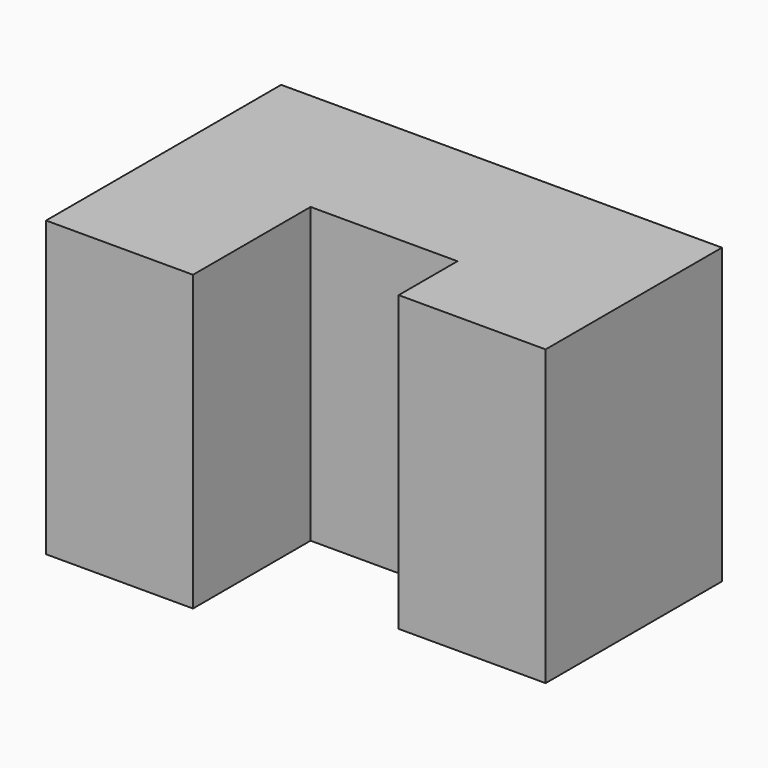
from build123d import *

# Parameters (mm, degrees)
F0_W     = 25.4
F0_H     = 50.8
F0_H_2   = 20.5127365448
F1_DEPTH = 50.8
F3_DEPTH = 50.8


with BuildPart() as f1:
    # F0 (on Front) → F1 (new body)
    with BuildSketch(Plane.XZ):
        with Locations((12.7, 25.4)):
            Rectangle(F0_W, F0_H)
        Polygon((25.4, 50.8), (25.4, 0), (50.8, 0), (50.8, 20.5127365448), (76.2, 20.5127365448), (76.2, 50.8), align=None)
        with Locations((63.5, 10.2563682724)):
            Rectangle(F0_W, F0_H_2)
    extrude(amount=-F1_DEPTH)

    # F2 (on face) → F3 (cut)
    with BuildSketch(Plane.XY.offset(50.8)):
        Polygon((25.4, 25.4), (25.4, 0), (76.2, 0), (76.2, 12.7), (50.8, 12.7), (50.8, 25.4), align=None)
    extrude(amount=-F3_DEPTH, mode=Mode.SUBTRACT)


solid = f1.part
